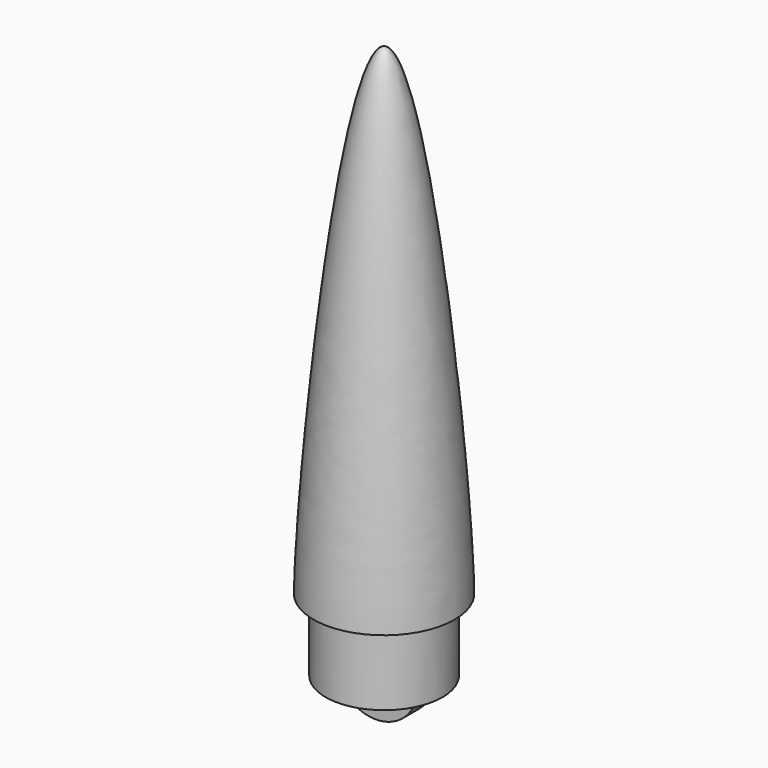
from build123d import *

# Parameters (mm, degrees)
F0_W          = 7
F0_H          = 1.5
F3_DEPTH      = 1.5
F3_DEPTH_BACK = 1.5


with BuildPart() as f1:
    # F0 (on Front) → F1 (revolve)
    with BuildSketch(Plane.XZ):
        with BuildLine():
            Line((0, 70), (0, 68.0976433185))
            add(Edge.make_bspline(
                [(0, 68.0976433185), (0.0036651738, 68.091286361), (0.0735583017, 67.9693266545), (0.2332474342, 67.6563648851), (0.5082121427, 67.0517292206), (0.8604479265, 66.1205602124), (1.2546108918, 64.8598950509), (1.6766407159, 63.3142585618), (2.1465675574, 61.349579708), (2.7238196198, 58.689726414), (3.4169862738, 54.9748622299), (4.1546476556, 50.3464181299), (4.899730899, 45.0701178844), (5.5998120444, 39.5160014433), (6.3168761791, 33.1685812056), (7.1037749, 25.5624577127), (7.8897960529, 16.5820828478), (8.4647990601, 8.5053989008), (8.7086953018, 2.9217898834), (8.7451196828, 0.63010127), (8.7500037888, 0)],
                knots=[0.8047769888, 0.8047769888, 0.8047769888, 0.8047769888, 0.8267857056, 1.2263936757, 1.8581696403, 2.8186755303, 4.2107492366, 5.8192262715, 7.6245086535, 10.2704025787, 13.9837872747, 18.9597209409, 24.3297980106, 29.9691357171, 35.7533124084, 43.4929066274, 52.9086496934, 62.7964097209, 67.7821668741, 69.6723579694, 69.6723579694, 69.6723579694, 69.6723579694], degree=3))
            Line((8.7500037888, 0), (10.25, 0))
            add(Edge.make_bspline(
                [(0, 70), (5, 70), (10, 16), (10.25, 0)],
                knots=[0, 0, 0, 0, 70.7464663428, 70.7464663428, 70.7464663428, 70.7464663428], degree=3))
        make_face()
        with BuildLine():
            Line((0, 68.0976433185), (0, 0))
            Line((0, 0), (7, 0))
            Line((7, 0), (7, 1.5))
            Line((7, 1.5), (8.5, 1.5))
            Line((8.5, 1.5), (8.5, 0))
            Line((8.5, 0), (8.7500037888, 0))
            add(Edge.make_bspline(
                [(0, 68.0976433185), (0.0036651738, 68.091286361), (0.0735583017, 67.9693266545), (0.2332474342, 67.6563648851), (0.5082121427, 67.0517292206), (0.8604479265, 66.1205602124), (1.2546108918, 64.8598950509), (1.6766407159, 63.3142585618), (2.1465675574, 61.349579708), (2.7238196198, 58.689726414), (3.4169862738, 54.9748622299), (4.1546476556, 50.3464181299), (4.899730899, 45.0701178844), (5.5998120444, 39.5160014433), (6.3168761791, 33.1685812056), (7.1037749, 25.5624577127), (7.8897960529, 16.5820828478), (8.4647990601, 8.5053989008), (8.7086953018, 2.9217898834), (8.7451196828, 0.63010127), (8.7500037888, 0)],
                knots=[0.8047769888, 0.8047769888, 0.8047769888, 0.8047769888, 0.8267857056, 1.2263936757, 1.8581696403, 2.8186755303, 4.2107492366, 5.8192262715, 7.6245086535, 10.2704025787, 13.9837872747, 18.9597209409, 24.3297980106, 29.9691357171, 35.7533124084, 43.4929066274, 52.9086496934, 62.7964097209, 67.7821668741, 69.6723579694, 69.6723579694, 69.6723579694, 69.6723579694], degree=3))
        make_face()
    revolve(axis=Axis((0, 0, 35), (0, 0, 1)))


with BuildPart() as f1b:
    # F0 (on Front) → F1, piece 2 (revolve)
    with BuildSketch(Plane.XZ):
        Polygon((8.5, 0), (7, 0), (7, -9), (7, -10.5), (8.5, -10.5), align=None)
        with Locations((3.5, -9.75)):
            Rectangle(F0_W, F0_H)
    revolve(axis=Axis((0, 0, 35), (0, 0, 1)))

    # F2 (on Front) → F3 (join, two sides)
    with BuildSketch(Plane.XZ) as f3_sk:
        with BuildLine():
            Line((-3.9496840827, -10.5), (-6, -10.5))
            ThreePointArc((-6, -10.5), (0, -15.5), (6, -10.5))
            Line((6, -10.5), (3.9496840827, -10.5))
            ThreePointArc((3.9496840827, -10.5), (0, -13.5000005308), (-3.9496840827, -10.5))
        make_face()
    extrude(amount=-F3_DEPTH)
    extrude(f3_sk.sketch, amount=F3_DEPTH_BACK)


solid = Compound([f1.part, f1b.part])
